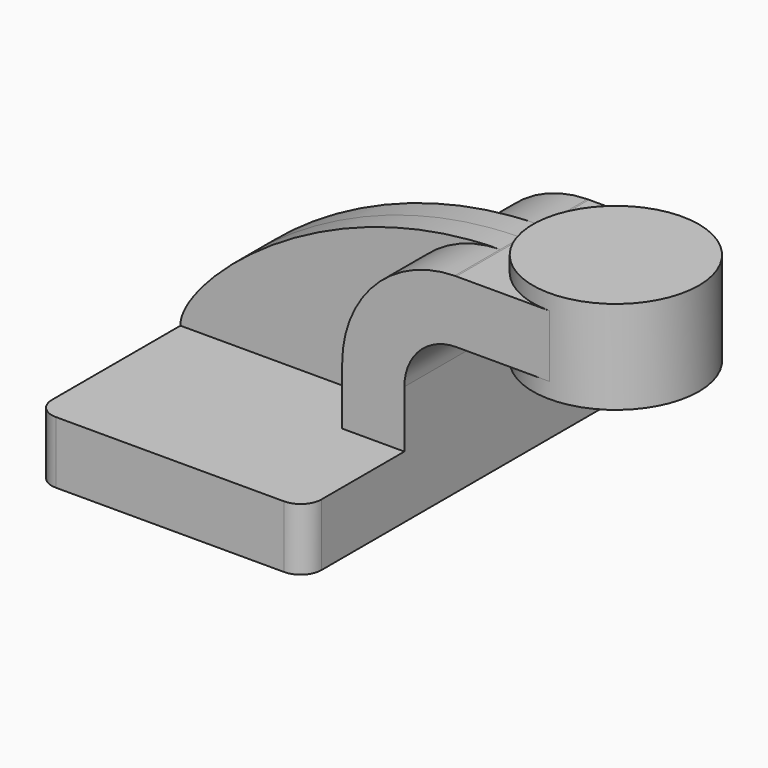
from build123d import *

# Parameters (mm, degrees)
F1_DEPTH = 63.5
F0_W     = 25.4
F0_H     = 19.05
F2_DEPTH = 25.4
F3_DEPTH = 7.9375
F5_R     = 6.35


with BuildPart() as f1:
    # F0 (on Front) → F1 (new body, symmetric)
    with BuildSketch(Plane.XZ):
        Polygon((-41.275, 9.525), (-41.275, -9.525), (41.275, -9.525), (41.275, 9.525), (22.225, 9.525), align=None)
    extrude(amount=F1_DEPTH, both=True)

    # F0 (on Front) → F2 (join, symmetric)
    with BuildSketch(Plane.XZ):
        with Locations((73.025, 52.4002)):
            Rectangle(F0_W, F0_H)
        with BuildLine():
            Line((22.225, 9.525), (41.275, 9.525))
            Line((41.275, 9.525), (41.275, 27.0002))
            ThreePointArc((41.275, 27.0002), (45.9246798487, 38.2255201513), (57.15, 42.8752))
            Line((57.15, 42.8752), (60.325, 42.8752))
            Line((60.325, 42.8752), (60.325, 61.9252))
            Line((60.325, 61.9252), (57.15, 61.9252))
            add(Edge.make_bspline(
                [(56.6801270961, 61.9220390761), (56.8366358852, 61.9233931475), (56.9932603728, 61.9244472607), (57.15, 61.9252)],
                knots=[111.1987237501, 111.1987237501, 111.1987237501, 111.1987237501, 111.5045361635, 111.5045361635, 111.5045361635, 111.5045361635], degree=3))
            ThreePointArc((56.6801270961, 61.9220390761), (32.2887255338, 51.5292166317), (22.225, 27.0002))
            Line((22.225, 27.0002), (22.225, 9.525))
        make_face()
    extrude(amount=F2_DEPTH, both=True)

    # F0 (on Front) → F3 (join, symmetric)
    with BuildSketch(Plane.XZ):
        with BuildLine():
            add(Edge.make_bspline(
                [(-41.275, 9.525), (-41.8411235038, 21.2775444585), (-0.2291965204, 61.4296751081), (56.6801270961, 61.9220390761)],
                knots=[0, 0, 0, 0, 111.1987237501, 111.1987237501, 111.1987237501, 111.1987237501], degree=3))
            Line((-41.275, 9.525), (22.225, 9.525))
            Line((22.225, 9.525), (22.225, 27.0002))
            ThreePointArc((22.225, 27.0002), (32.2887255338, 51.5292166317), (56.6801270961, 61.9220390761))
        make_face()
    extrude(amount=F3_DEPTH, both=True)

    # F5
    f5_edges = [f1.edges().sort_by_distance(p)[0] for p in [
        (-41.275, -63.5, 0),
        (41.275, -63.5, 0),
        (41.275, 63.5, 0),
        (-41.275, 63.5, 0),
    ]]
    fillet(f5_edges, radius=F5_R)


with BuildPart() as f4:
    # F0 (on Front) → F4 (revolve)
    with BuildSketch(Plane.XZ):
        Polygon((85.725, 66.675), (85.725, 61.9252), (85.725, 42.8752), (85.725, 38.1), (111.125, 38.1), (111.125, 66.675), align=None)
    revolve(axis=Axis((85.725, 0, 52.3875), (0, 0, -1)))


solid = Compound([f1.part, f4.part])
